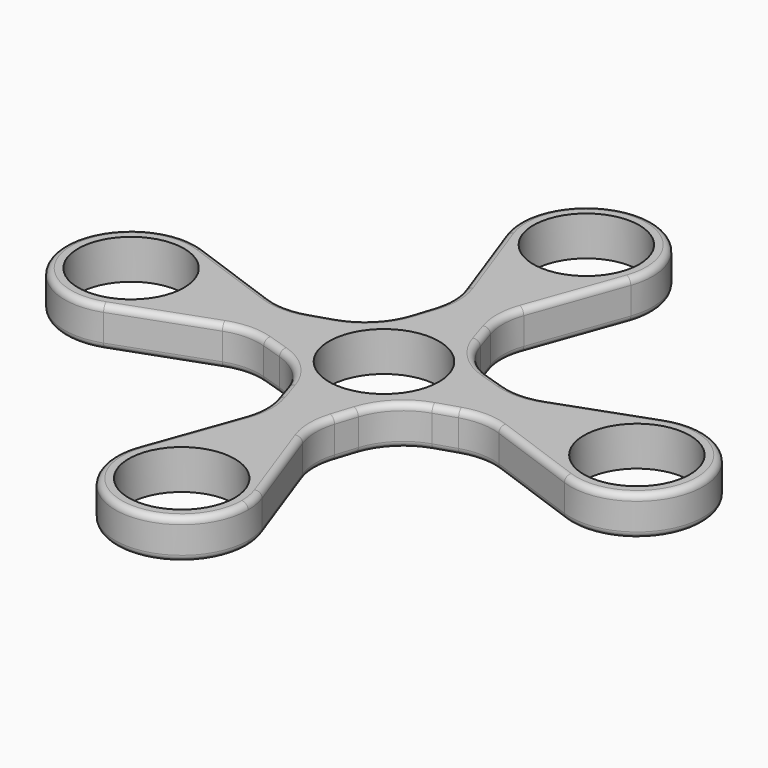
from build123d import *

# Parameters (mm, degrees)
F1_DEPTH = 3.9751
F2_R     = 12.7
F3_R     = 10.6299
F3_R_2   = 11.0363
F4_DEPTH = 7.9502
F5_R     = 1.27
F6_R     = 1.27


with BuildPart() as f1:
    # F0 (on Top) → F1 (new body, symmetric)
    with BuildSketch(Plane.XY):
        with BuildLine():
            ThreePointArc((-12.5467806385, 46.2833064516), (-7.6678587797, 39.890088601), (0, 37.465))
            ThreePointArc((0, 37.465), (7.6678587797, 39.890088601), (12.5467806385, 46.2833064516))
            ThreePointArc((12.5467806385, 46.2833064516), (13.1364672727, 48.507522608), (13.335, 50.8))
            ThreePointArc((13.335, 50.8), (-2.292477392, 63.9364672727), (-12.5467806385, 46.2833064516))
        make_face()
        with BuildLine():
            Line((-12.5467806385, 46.2833064516), (-4.4131764623, 23.6892237879))
            Line((-4.4131764623, 23.6892237879), (0, 37.465))
            ThreePointArc((0, 37.465), (-7.6678587797, 39.890088601), (-12.5467806385, 46.2833064516))
        make_face()
        with BuildLine():
            Line((0, 37.465), (4.4131764623, 23.6892237879))
            Line((4.4131764623, 23.6892237879), (12.5467806385, 46.2833064516))
            ThreePointArc((12.5467806385, 46.2833064516), (7.6678587797, 39.890088601), (0, 37.465))
        make_face()
        with BuildLine():
            Line((-37.465, 0), (-23.6892237879, 4.4131764623))
            Line((-23.6892237879, 4.4131764623), (-46.2833064516, 12.5467806385))
            ThreePointArc((-46.2833064516, 12.5467806385), (-39.890088601, 7.6678587797), (-37.465, 0))
        make_face()
        with BuildLine():
            Line((-46.2833064516, -12.5467806385), (-23.6892237879, -4.4131764623))
            Line((-23.6892237879, -4.4131764623), (-37.465, 0))
            ThreePointArc((-37.465, 0), (-39.890088601, -7.6678587797), (-46.2833064516, -12.5467806385))
        make_face()
        with BuildLine():
            ThreePointArc((12.5467806385, -46.2833064516), (7.6678587797, -39.890088601), (0, -37.465))
            ThreePointArc((0, -37.465), (-7.6678587797, -39.890088601), (-12.5467806385, -46.2833064516))
            ThreePointArc((-12.5467806385, -46.2833064516), (-2.292477392, -63.9364672727), (13.335, -50.8))
            ThreePointArc((13.335, -50.8), (13.1364672727, -48.507522608), (12.5467806385, -46.2833064516))
        make_face()
        with BuildLine():
            Line((12.5467806385, -46.2833064516), (4.4131764623, -23.6892237879))
            Line((4.4131764623, -23.6892237879), (0, -37.465))
            ThreePointArc((0, -37.465), (7.6678587797, -39.890088601), (12.5467806385, -46.2833064516))
        make_face()
        with BuildLine():
            Line((0, -37.465), (-4.4131764623, -23.6892237879))
            Line((-4.4131764623, -23.6892237879), (-12.5467806385, -46.2833064516))
            ThreePointArc((-12.5467806385, -46.2833064516), (-7.6678587797, -39.890088601), (0, -37.465))
        make_face()
        with BuildLine():
            ThreePointArc((46.2833064516, 12.5467806385), (39.890088601, 7.6678587797), (37.465, 0))
            ThreePointArc((37.465, 0), (39.890088601, -7.6678587797), (46.2833064516, -12.5467806385))
            ThreePointArc((46.2833064516, -12.5467806385), (58.4678587797, -10.909911399), (64.135, 0))
            ThreePointArc((64.135, 0), (58.4678587797, 10.909911399), (46.2833064516, 12.5467806385))
        make_face()
        with BuildLine():
            Line((46.2833064516, 12.5467806385), (23.6892237879, 4.4131764623))
            Line((23.6892237879, 4.4131764623), (37.465, 0))
            ThreePointArc((37.465, 0), (39.890088601, 7.6678587797), (46.2833064516, 12.5467806385))
        make_face()
        with BuildLine():
            Line((37.465, 0), (23.6892237879, -4.4131764623))
            Line((23.6892237879, -4.4131764623), (46.2833064516, -12.5467806385))
            ThreePointArc((46.2833064516, -12.5467806385), (39.890088601, -7.6678587797), (37.465, 0))
        make_face()
        with BuildLine():
            ThreePointArc((10.8850771041, 3.4871186441), (11.2929476068, 1.7647193403), (11.43, 0))
            Line((11.43, 0), (23.6892237879, 4.4131764623))
            Line((23.6892237879, 4.4131764623), (9.0901141544, 9.0901141544))
            Line((9.0901141544, 9.0901141544), (10.8850771041, 3.4871186441))
        make_face()
        with BuildLine():
            ThreePointArc((3.4871186441, 10.8850771041), (8.082230509, 8.082230509), (10.8850771041, 3.4871186441))
            Line((10.8850771041, 3.4871186441), (9.0901141544, 9.0901141544))
            Line((9.0901141544, 9.0901141544), (3.4871186441, 10.8850771041))
        make_face()
        with BuildLine():
            ThreePointArc((0, 11.43), (1.7647193403, 11.2929476068), (3.4871186441, 10.8850771041))
            Line((3.4871186441, 10.8850771041), (9.0901141544, 9.0901141544))
            Line((9.0901141544, 9.0901141544), (4.4131764623, 23.6892237879))
            Line((4.4131764623, 23.6892237879), (0, 11.43))
        make_face()
        with BuildLine():
            ThreePointArc((-3.4871186441, 10.8850771041), (-1.7647193403, 11.2929476068), (0, 11.43))
            Line((0, 11.43), (-4.4131764623, 23.6892237879))
            Line((-4.4131764623, 23.6892237879), (-9.0901141544, 9.0901141544))
            Line((-9.0901141544, 9.0901141544), (-3.4871186441, 10.8850771041))
        make_face()
        with BuildLine():
            ThreePointArc((-10.8850771041, 3.4871186441), (-8.082230509, 8.082230509), (-3.4871186441, 10.8850771041))
            Line((-3.4871186441, 10.8850771041), (-9.0901141544, 9.0901141544))
            Line((-9.0901141544, 9.0901141544), (-10.8850771041, 3.4871186441))
        make_face()
        with BuildLine():
            Line((-23.6892237879, 4.4131764623), (-11.43, 0))
            ThreePointArc((-11.43, 0), (-11.2929476068, 1.7647193403), (-10.8850771041, 3.4871186441))
            Line((-10.8850771041, 3.4871186441), (-9.0901141544, 9.0901141544))
            Line((-9.0901141544, 9.0901141544), (-23.6892237879, 4.4131764623))
        make_face()
        with BuildLine():
            ThreePointArc((-10.8850771041, -3.4871186441), (-11.2929476068, -1.7647193403), (-11.43, 0))
            Line((-11.43, 0), (-23.6892237879, -4.4131764623))
            Line((-23.6892237879, -4.4131764623), (-9.0901141544, -9.0901141544))
            Line((-9.0901141544, -9.0901141544), (-10.8850771041, -3.4871186441))
        make_face()
        with BuildLine():
            ThreePointArc((-3.4871186441, -10.8850771041), (-8.082230509, -8.082230509), (-10.8850771041, -3.4871186441))
            Line((-10.8850771041, -3.4871186441), (-9.0901141544, -9.0901141544))
            Line((-9.0901141544, -9.0901141544), (-3.4871186441, -10.8850771041))
        make_face()
        with BuildLine():
            Line((-4.4131764623, -23.6892237879), (0, -11.43))
            ThreePointArc((0, -11.43), (-1.7647193403, -11.2929476068), (-3.4871186441, -10.8850771041))
            Line((-3.4871186441, -10.8850771041), (-9.0901141544, -9.0901141544))
            Line((-9.0901141544, -9.0901141544), (-4.4131764623, -23.6892237879))
        make_face()
        with BuildLine():
            Line((9.0901141544, -9.0901141544), (3.4871186441, -10.8850771041))
            ThreePointArc((3.4871186441, -10.8850771041), (1.7647193403, -11.2929476068), (0, -11.43))
            Line((0, -11.43), (4.4131764623, -23.6892237879))
            Line((4.4131764623, -23.6892237879), (9.0901141544, -9.0901141544))
        make_face()
        with BuildLine():
            Line((9.0901141544, -9.0901141544), (10.8850771041, -3.4871186441))
            ThreePointArc((10.8850771041, -3.4871186441), (8.082230509, -8.082230509), (3.4871186441, -10.8850771041))
            Line((3.4871186441, -10.8850771041), (9.0901141544, -9.0901141544))
        make_face()
        with BuildLine():
            Line((23.6892237879, -4.4131764623), (11.43, 0))
            ThreePointArc((11.43, 0), (11.2929476068, -1.7647193403), (10.8850771041, -3.4871186441))
            Line((10.8850771041, -3.4871186441), (9.0901141544, -9.0901141544))
            Line((9.0901141544, -9.0901141544), (23.6892237879, -4.4131764623))
        make_face()
        Polygon((-4.4131764623, 23.6892237879), (0, 11.43), (0, 37.465), align=None)
        Polygon((0, 37.465), (0, 11.43), (4.4131764623, 23.6892237879), align=None)
        Polygon((-37.465, 0), (-11.43, 0), (-23.6892237879, 4.4131764623), align=None)
        Polygon((-23.6892237879, -4.4131764623), (-11.43, 0), (-37.465, 0), align=None)
        Polygon((0, -37.465), (0, -11.43), (-4.4131764623, -23.6892237879), align=None)
        Polygon((4.4131764623, -23.6892237879), (0, -11.43), (0, -37.465), align=None)
        Polygon((23.6892237879, 4.4131764623), (11.43, 0), (37.465, 0), align=None)
        Polygon((37.465, 0), (11.43, 0), (23.6892237879, -4.4131764623), align=None)
        with BuildLine():
            Line((-11.43, 0), (0, 0))
            Line((0, 0), (0, 11.43))
            ThreePointArc((0, 11.43), (-1.7647193403, 11.2929476068), (-3.4871186441, 10.8850771041))
            ThreePointArc((-3.4871186441, 10.8850771041), (-8.082230509, 8.082230509), (-10.8850771041, 3.4871186441))
            ThreePointArc((-10.8850771041, 3.4871186441), (-11.2929476068, 1.7647193403), (-11.43, 0))
        make_face()
        with BuildLine():
            Line((0, -11.43), (0, 0))
            Line((0, 0), (-11.43, 0))
            ThreePointArc((-11.43, 0), (-11.2929476068, -1.7647193403), (-10.8850771041, -3.4871186441))
            ThreePointArc((-10.8850771041, -3.4871186441), (-8.082230509, -8.082230509), (-3.4871186441, -10.8850771041))
            ThreePointArc((-3.4871186441, -10.8850771041), (-1.7647193403, -11.2929476068), (0, -11.43))
        make_face()
        with BuildLine():
            Line((0, 0), (11.43, 0))
            ThreePointArc((11.43, 0), (11.2929476068, 1.7647193403), (10.8850771041, 3.4871186441))
            ThreePointArc((10.8850771041, 3.4871186441), (8.082230509, 8.082230509), (3.4871186441, 10.8850771041))
            ThreePointArc((3.4871186441, 10.8850771041), (1.7647193403, 11.2929476068), (0, 11.43))
            Line((0, 11.43), (0, 0))
        make_face()
        with BuildLine():
            ThreePointArc((10.8850771041, -3.4871186441), (11.2929476068, -1.7647193403), (11.43, 0))
            Line((11.43, 0), (0, 0))
            Line((0, 0), (0, -11.43))
            ThreePointArc((0, -11.43), (1.7647193403, -11.2929476068), (3.4871186441, -10.8850771041))
            ThreePointArc((3.4871186441, -10.8850771041), (8.082230509, -8.082230509), (10.8850771041, -3.4871186441))
        make_face()
        with BuildLine():
            ThreePointArc((-46.2833064516, -12.5467806385), (-39.890088601, -7.6678587797), (-37.465, 0))
            ThreePointArc((-37.465, 0), (-39.890088601, 7.6678587797), (-46.2833064516, 12.5467806385))
            ThreePointArc((-46.2833064516, 12.5467806385), (-64.135, 0), (-46.2833064516, -12.5467806385))
        make_face()
    extrude(amount=F1_DEPTH, both=True)

    # F2
    f2_edges = [f1.edges().sort_by_distance(p)[0] for p in [
        (-23.689224, -4.413176, 0),
        (-9.090114, -9.090114, 0),
        (-4.413176, -23.689224, 0),
        (4.413176, -23.689224, 0),
        (9.090114, -9.090114, 0),
        (23.689224, -4.413176, 0),
        (23.689224, 4.413176, 0),
        (9.090114, 9.090114, 0),
        (4.413176, 23.689224, 0),
        (-9.090114, 9.090114, 0),
        (-23.689224, 4.413176, 0),
        (-4.413176, 23.689224, 0),
    ]]
    fillet(f2_edges, radius=F2_R)

    # F3 (on face) → F4 (cut, through all)
    with BuildSketch(Plane(origin=(0, 0, -3.9751), x_dir=(1, 0, 0), z_dir=(0, 0, -1))):
        with Locations((-50.8, 0)):
            Circle(F3_R)
        Circle(F3_R_2)
        with Locations((50.8, 0)):
            Circle(F3_R)
        with Locations((0, 50.8)):
            Circle(F3_R)
        with Locations((0, -50.8)):
            Circle(F3_R)
    extrude(amount=-F4_DEPTH, mode=Mode.SUBTRACT)

    # F5
    f5_edges = [f1.edges().sort_by_distance(p)[0] for p in [
        (-37.017967, -9.211367, 3.9751),
    ]]
    fillet(f5_edges, radius=F5_R)

    # F6
    f6_edges = [f1.edges().sort_by_distance(p)[0] for p in [
        (9.211367, -37.017967, -3.9751),
    ]]
    fillet(f6_edges, radius=F6_R)


solid = f1.part
